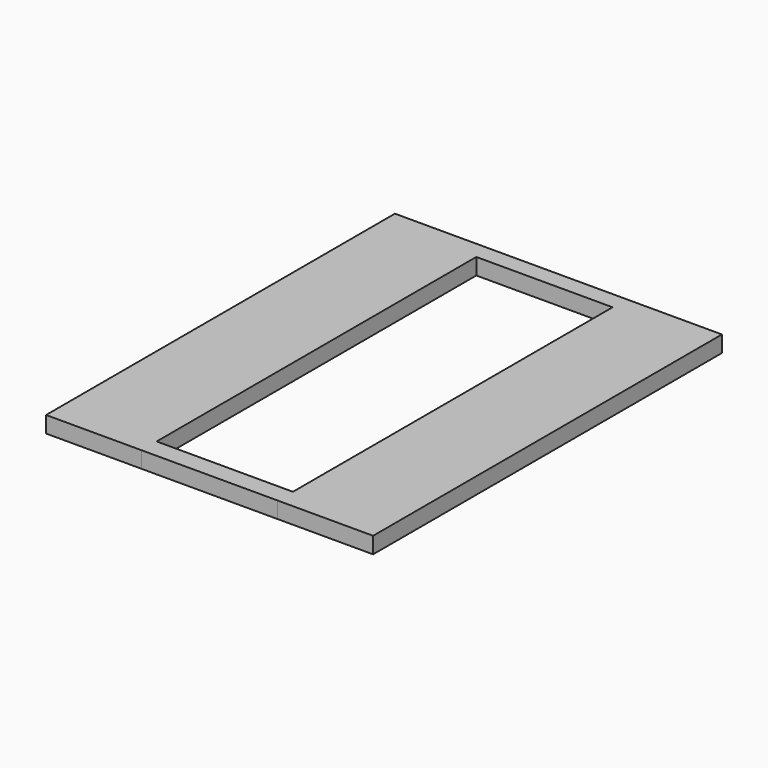
from build123d import *

# Parameters (mm, degrees)
F0_W     = 63.5
F0_H     = 8.137
F0_H_2   = 8.856999
F1_DEPTH = 7.62
F3_DEPTH = 7.62


with BuildPart() as f1:
    # F0 (on Top) → F1 (new body)
    with BuildSketch(Plane.XY):
        Polygon((44.45, 0), (0, 0), (0, -203.2), (44.45, -203.2), (44.45, -194.343001), (44.45, -8.137), align=None)
        with Locations((76.2, -4.0685)):
            Rectangle(F0_W, F0_H)
        with Locations((76.2, -198.771501)):
            Rectangle(F0_W, F0_H_2)
    extrude(amount=F1_DEPTH)

    # F2 (on face) → F3 (join)
    with BuildSketch(Plane.XY.offset(7.62)):
        Polygon((152.4, 0), (107.95, 0), (107.95, -8.137), (107.95, -194.343001), (107.95, -203.2), (152.4, -203.2), align=None)
    extrude(amount=-F3_DEPTH)


solid = f1.part
